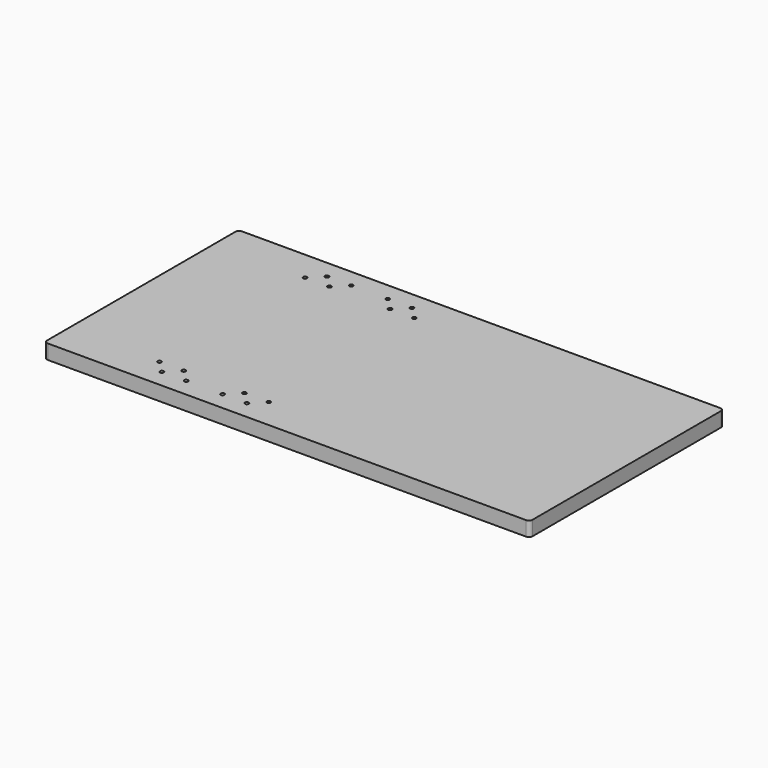
from build123d import *

# Parameters (mm, degrees)
SKETCH_W  = 400
SKETCH_H  = 200
SKETCH_R  = 1.5625
PAD_DEPTH = 12
FILLET_R  = 3


with BuildPart() as part:
    # Sketch → Pad (new body)
    with BuildSketch(Plane.XY):
        with Locations((200, 100)):
            Rectangle(SKETCH_W, SKETCH_H)
        with Locations((85, 15)):
            Circle(SKETCH_R, mode=Mode.SUBTRACT)
        with Locations((105, 15)):
            Circle(SKETCH_R, mode=Mode.SUBTRACT)
        with Locations((75, 25)):
            Circle(SKETCH_R, mode=Mode.SUBTRACT)
        with Locations((95, 25)):
            Circle(SKETCH_R, mode=Mode.SUBTRACT)
        with Locations((155, 15)):
            Circle(SKETCH_R, mode=Mode.SUBTRACT)
        with Locations((135, 15)):
            Circle(SKETCH_R, mode=Mode.SUBTRACT)
        with Locations((145, 25)):
            Circle(SKETCH_R, mode=Mode.SUBTRACT)
        with Locations((165, 25)):
            Circle(SKETCH_R, mode=Mode.SUBTRACT)
        with Locations((85, 185)):
            Circle(SKETCH_R, mode=Mode.SUBTRACT)
        with Locations((105, 185)):
            Circle(SKETCH_R, mode=Mode.SUBTRACT)
        with Locations((75, 175)):
            Circle(SKETCH_R, mode=Mode.SUBTRACT)
        with Locations((95, 175)):
            Circle(SKETCH_R, mode=Mode.SUBTRACT)
        with Locations((155, 185)):
            Circle(SKETCH_R, mode=Mode.SUBTRACT)
        with Locations((135, 185)):
            Circle(SKETCH_R, mode=Mode.SUBTRACT)
        with Locations((145, 175)):
            Circle(SKETCH_R, mode=Mode.SUBTRACT)
        with Locations((165, 175)):
            Circle(SKETCH_R, mode=Mode.SUBTRACT)
    extrude(amount=PAD_DEPTH)

    # Fillet
    fillet_edges = [part.edges().sort_by_distance(p)[0] for p in [
        (0, 0, 6),
        (400, 0, 6),
        (400, 200, 6),
        (0, 200, 6),
    ]]
    fillet(fillet_edges, radius=FILLET_R)


solid = part.part
